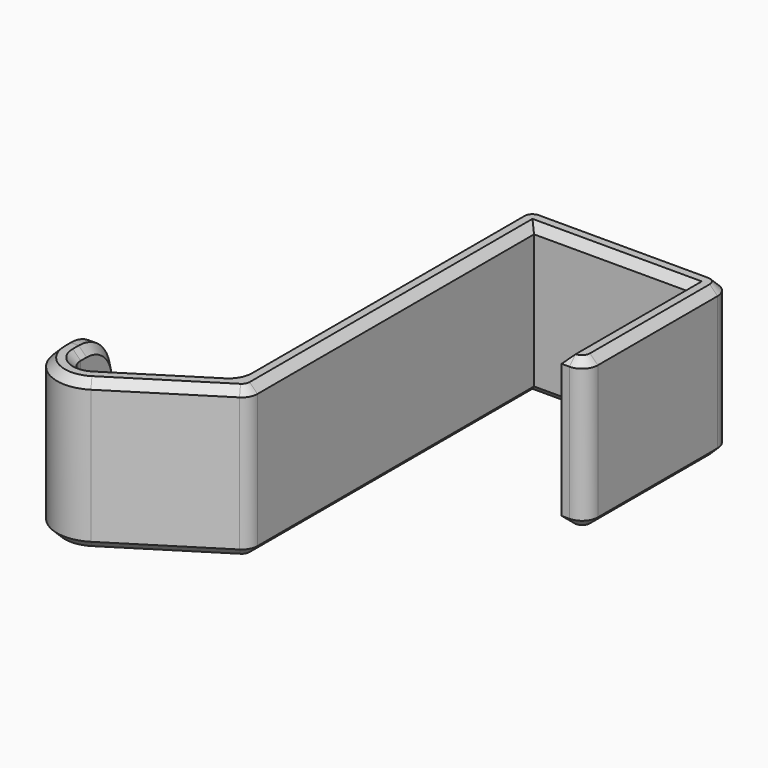
from build123d import *

# Parameters (mm, degrees)
F1_DEPTH = 19
F2_R     = 5
F3_R     = 2
F4_R     = 5
F5_SIZE  = 1


with BuildPart() as f1:
    # F0 (on Top) → F1 (new body)
    with BuildSketch(Plane.XY):
        Polygon((3, 0), (0, 0), (0, -15), (21.13954, -1.653846), (21.13954, 43.346154), (40.63954, 43.346154), (40.63954, 23.346154), (43.63954, 23.346154), (43.63954, 46.346154), (18.13954, 46.346154), (18.13954, 0), (3, -9.558138), align=None)
    extrude(amount=F1_DEPTH)

    # F2
    f2_edges = [f1.edges().sort_by_distance(p)[0] for p in [
        (1.5, 0, 0),
        (1.5, 0, 19),
    ]]
    fillet(f2_edges, radius=F2_R)

    # F3
    f3_edges = [f1.edges().sort_by_distance(p)[0] for p in [
        (18.13954, 46.346154, 9.5),
        (3, -9.558138, 9.5),
        (43.63954, 23.346154, 9.5),
        (18.13954, 0, 9.5),
        (21.13954, -1.653846, 9.5),
        (43.63954, 46.346154, 9.5),
    ]]
    fillet(f3_edges, radius=F3_R)

    # F4
    f4_edges = [f1.edges().sort_by_distance(p)[0] for p in [
        (0, -15, 9.5),
    ]]
    fillet(f4_edges, radius=F4_R)

    # F5
    f5_edges = [f1.edges().sort_by_distance(p)[0] for p in [
        (13.938232, -6.200292, 19),
        (11.637462, -4.104996, 19),
        (30.88954, 43.346154, 0),
        (40.63954, 33.346154, 0),
        (30.88954, 43.346154, 19),
        (40.63954, 33.346154, 19),
    ]]
    chamfer(f5_edges, length=F5_SIZE)


solid = f1.part
